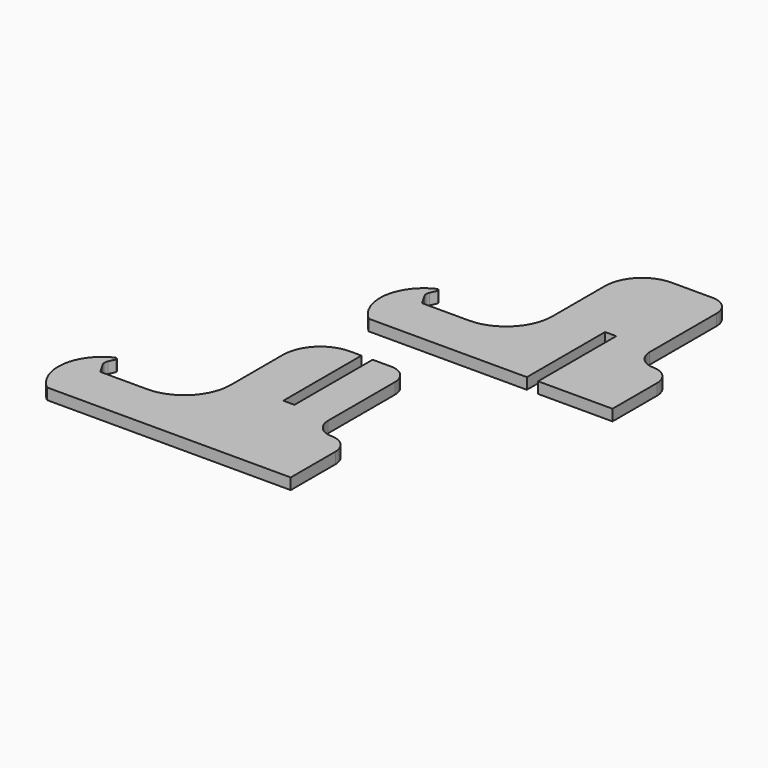
from build123d import *

# Parameters (mm, degrees)
F1_DEPTH = 3


with BuildPart() as f1:
    # F0 (on Top) → F1 (new body)
    with BuildSketch(Plane.XY):
        with BuildLine():
            ThreePointArc((-3.602714, 33.192595), (-7.263879, 24.35376), (-16.102714, 20.692595))
            Line((-16.102714, 20.692595), (-28.69764, 20.692595))
            Line((-28.69764, 20.692595), (-30.346209, 23.548001))
            ThreePointArc((-30.346209, 23.548001), (-30.611964, 24.454349), (-30.432163, 25.381584))
            Line((-30.432163, 25.381584), (-29.668132, 27.0479))
            ThreePointArc((-29.668132, 27.0479), (-29.770924, 27.611684), (-30.335748, 27.708603))
            ThreePointArc((-30.335748, 27.708603), (-36.970856, 18.680172), (-33.027767, 8.192595))
            Line((-33.027767, 8.192595), (9.472233, 8.192595))
            Line((9.472233, 8.192595), (9.472233, 34.442595))
            Line((9.472233, 34.442595), (12.472233, 34.442595))
            Line((12.472233, 34.442595), (12.472233, 8.192595))
            Line((12.472233, 8.192595), (32.472233, 8.192595))
            Line((32.472233, 8.192595), (32.472233, 23.192595))
            ThreePointArc((32.472233, 23.192595), (31.007767, 26.728129), (27.472233, 28.192595))
            ThreePointArc((27.472233, 28.192595), (23.9367, 29.657061), (22.472233, 33.192595))
            Line((22.472233, 33.192595), (22.472233, 55.692595))
            ThreePointArc((22.472233, 55.692595), (21.007767, 59.228129), (17.472233, 60.692595))
            Line((17.472233, 60.692595), (6.397286, 60.692595))
            ThreePointArc((6.397286, 60.692595), (-0.673782, 57.763663), (-3.602714, 50.692595))
            Line((-3.602714, 50.692595), (-3.602714, 33.192595))
        make_face()
        with BuildLine():
            ThreePointArc((-36.818155, -33.340631), (-40.47932, -42.179466), (-49.318155, -45.840631))
            Line((-49.318155, -45.840631), (-61.913081, -45.840631))
            Line((-61.913081, -45.840631), (-63.561651, -42.985225))
            ThreePointArc((-63.561651, -42.985225), (-63.827406, -42.078877), (-63.647604, -41.151643))
            Line((-63.647604, -41.151643), (-62.883573, -39.485326))
            ThreePointArc((-62.883573, -39.485326), (-62.986366, -38.921542), (-63.551189, -38.824623))
            ThreePointArc((-63.551189, -38.824623), (-70.186298, -47.853054), (-66.243208, -58.340631))
            Line((-66.243208, -58.340631), (-23.743208, -58.340631))
            Line((-23.743208, -58.340631), (-20.743208, -58.340631))
            Line((-20.743208, -58.340631), (-0.743208, -58.340631))
            Line((-0.743208, -58.340631), (-0.743208, -43.340631))
            ThreePointArc((-0.743208, -43.340631), (-2.207674, -39.805097), (-5.743208, -38.340631))
            ThreePointArc((-5.743208, -38.340631), (-9.278742, -36.876165), (-10.743208, -33.340631))
            Line((-10.743208, -33.340631), (-10.743208, -10.840631))
            ThreePointArc((-10.743208, -10.840631), (-12.207674, -7.305097), (-15.743208, -5.840631))
            Line((-15.743208, -5.840631), (-20.743208, -5.840631))
            Line((-20.743208, -5.840631), (-20.743208, -32.090631))
            Line((-20.743208, -32.090631), (-23.743208, -32.090631))
            Line((-23.743208, -32.090631), (-23.743208, -5.840631))
            Line((-23.743208, -5.840631), (-26.818155, -5.840631))
            ThreePointArc((-26.818155, -5.840631), (-33.889223, -8.769563), (-36.818155, -15.840631))
            Line((-36.818155, -15.840631), (-36.818155, -33.340631))
        make_face()
    extrude(amount=F1_DEPTH)


solid = f1.part
